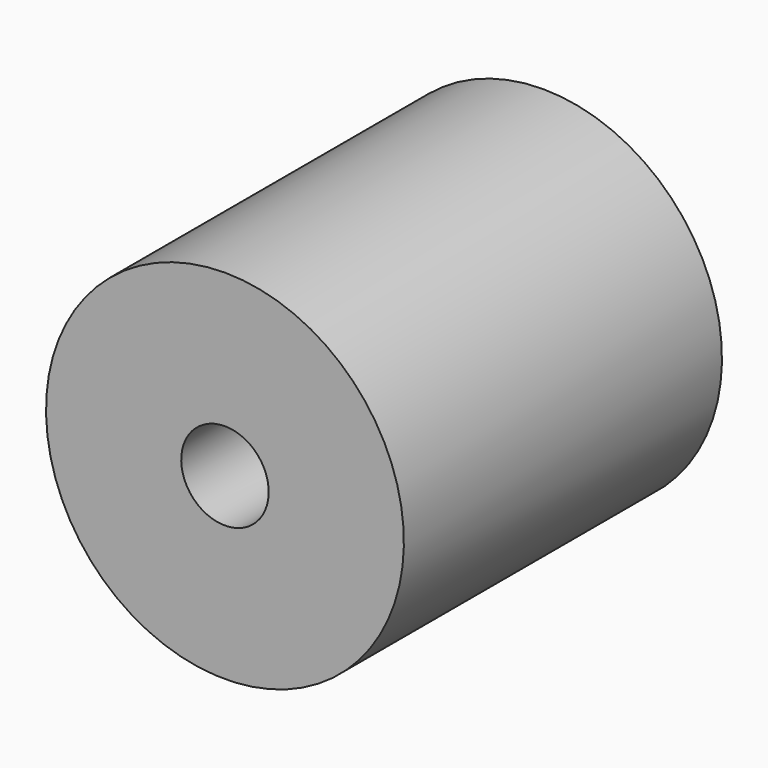
from build123d import *

# Parameters (mm, degrees)
F2_R     = 1.7
F3_DEPTH = 0.9


with BuildPart() as f1:
    # F0 (on Right) → F1 (revolve)
    with BuildSketch(Plane.YZ):
        Polygon((0, 2.25), (0, 0.55), (4, 0.55), (4, 0), (5, 0), (5, 2.25), align=None)
    revolve(axis=Axis((0, 2.351551, 0), (0, 1, 0)))

    # F2 (on Right) → F3 (cut, symmetric)
    with BuildSketch(Plane.YZ):
        with Locations((5.5, 0)):
            Circle(F2_R)
    extrude(amount=F3_DEPTH, both=True, mode=Mode.SUBTRACT)


solid = f1.part
